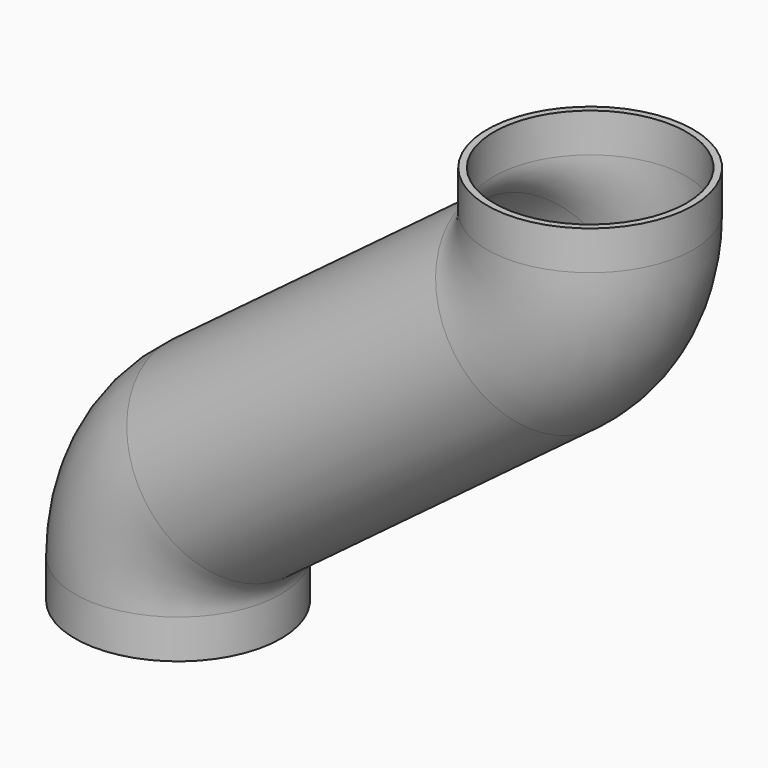
from build123d import *

# Parameters (mm, degrees)
F1_R = 25.4
F3_R = 23.749


with BuildPart() as f2:
    # F2: sweep along a path in F0
    with BuildLine(Plane.XZ) as f2_path:
        Line((0, 0), (0, 9.6107436847))
        ThreePointArc((0, 9.6107436847), (3.3621855838, 23.8302546703), (12.7366609557, 35.0381981067))
        Line((12.7366609557, 35.0381981067), (88.8633390443, 91.9618018933))
        ThreePointArc((88.8633390443, 91.9618018933), (98.2378144162, 103.1697453297), (101.6, 117.3892563153))
        Line((101.6, 117.3892563153), (101.6, 127))
    # F1 (on Top) → F2 (sweep)
    with BuildSketch(Plane.XY):
        Circle(F1_R)
    sweep(path=f2_path.line)

    # F4: sweep along a path in F0
    with BuildLine(Plane.XZ) as f4_path:
        Line((0, 0), (0, 9.6107436847))
        ThreePointArc((0, 9.6107436847), (3.3621855838, 23.8302546703), (12.7366609557, 35.0381981067))
        Line((12.7366609557, 35.0381981067), (88.8633390443, 91.9618018933))
        ThreePointArc((88.8633390443, 91.9618018933), (98.2378144162, 103.1697453297), (101.6, 117.3892563153))
        Line((101.6, 117.3892563153), (101.6, 127))
    # F3 (on face) → F4 (sweep, cut)
    with BuildSketch(Plane(origin=(0, 0, 0), x_dir=(1, 0, 0), z_dir=(0, 0, -1))):
        Circle(F3_R)
    sweep(path=f4_path.line, mode=Mode.SUBTRACT)


solid = f2.part
